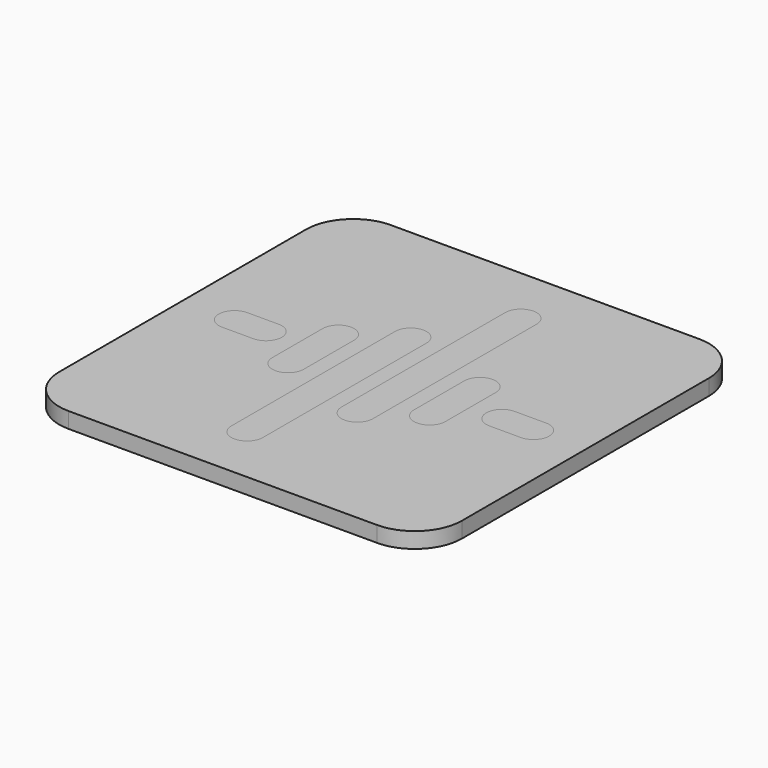
from build123d import *

# Parameters (mm, degrees)
F1_DEPTH = 5
F2_DEPTH = 5
F3_DEPTH = 5
F4_DEPTH = 5
F5_DEPTH = 5
F6_DEPTH = 5
F7_DEPTH = 5


with BuildPart() as f1:
    # F0 (on Top) → F1 (new body)
    with BuildSketch(Plane.XY):
        with BuildLine():
            ThreePointArc((64, 49), (59.606602, 59.606602), (49, 64))
            Line((49, 64), (-49, 64))
            ThreePointArc((-49, 64), (-59.606602, 59.606602), (-64, 49))
            Line((-64, 49), (-64, -49))
            ThreePointArc((-64, -49), (-59.606602, -59.606602), (-49, -64))
            Line((-49, -64), (49, -64))
            ThreePointArc((49, -64), (59.606602, -59.606602), (64, -49))
            Line((64, -49), (64, 49))
        make_face()
        with BuildLine():
            ThreePointArc((-7.5, 25), (-3.964466, 23.535534), (-2.5, 20))
            Line((-2.5, 20), (-2.5, -25))
            Line((-2.5, -25), (-2.5, -45))
            ThreePointArc((-2.5, -45), (-3.964466, -48.535534), (-7.5, -50))
            ThreePointArc((-7.5, -50), (-11.035534, -48.535534), (-12.5, -45))
            Line((-12.5, -45), (-12.5, -25))
            Line((-12.5, -25), (-12.5, 20))
            ThreePointArc((-12.5, 20), (-11.035534, 23.535534), (-7.5, 25))
        make_face(mode=Mode.SUBTRACT)
        with BuildLine():
            Line((-47.5, 5), (-37.5, 5))
            ThreePointArc((-37.5, 5), (-33.964466, 3.535534), (-32.5, 0))
            ThreePointArc((-32.5, 0), (-33.964466, -3.535534), (-37.5, -5))
            Line((-37.5, -5), (-47.5, -5))
            ThreePointArc((-47.5, -5), (-51.035534, -3.535534), (-52.5, 0))
            ThreePointArc((-52.5, 0), (-51.035534, 3.535534), (-47.5, 5))
        make_face(mode=Mode.SUBTRACT)
        with BuildLine():
            ThreePointArc((-22.5, 15), (-18.964466, 13.535534), (-17.5, 10))
            Line((-17.5, 10), (-17.5, -10))
            ThreePointArc((-17.5, -10), (-18.964466, -13.535534), (-22.5, -15))
            ThreePointArc((-22.5, -15), (-26.035534, -13.535534), (-27.5, -10))
            Line((-27.5, -10), (-27.5, 10))
            ThreePointArc((-27.5, 10), (-26.035534, 13.535534), (-22.5, 15))
        make_face(mode=Mode.SUBTRACT)
        with BuildLine():
            ThreePointArc((7.5, -25), (3.964466, -23.535534), (2.5, -20))
            Line((2.5, -20), (2.5, 25))
            Line((2.5, 25), (2.5, 45))
            ThreePointArc((2.5, 45), (3.964466, 48.535534), (7.5, 50))
            ThreePointArc((7.5, 50), (11.035534, 48.535534), (12.5, 45))
            Line((12.5, 45), (12.5, 25))
            Line((12.5, 25), (12.5, -20))
            ThreePointArc((12.5, -20), (11.035534, -23.535534), (7.5, -25))
        make_face(mode=Mode.SUBTRACT)
        with BuildLine():
            Line((27.5, 10), (27.5, -10))
            ThreePointArc((27.5, -10), (26.035534, -13.535534), (22.5, -15))
            ThreePointArc((22.5, -15), (18.964466, -13.535534), (17.5, -10))
            Line((17.5, -10), (17.5, 10))
            ThreePointArc((17.5, 10), (18.964466, 13.535534), (22.5, 15))
            ThreePointArc((22.5, 15), (26.035534, 13.535534), (27.5, 10))
        make_face(mode=Mode.SUBTRACT)
        with BuildLine():
            Line((47.5, -5), (37.5, -5))
            ThreePointArc((37.5, -5), (33.964466, -3.535534), (32.5, 0))
            ThreePointArc((32.5, 0), (33.964466, 3.535534), (37.5, 5))
            Line((37.5, 5), (47.5, 5))
            ThreePointArc((47.5, 5), (51.035534, 3.535534), (52.5, 0))
            ThreePointArc((52.5, 0), (51.035534, -3.535534), (47.5, -5))
        make_face(mode=Mode.SUBTRACT)
    extrude(amount=F1_DEPTH)


with BuildPart() as f2:
    # F0 (on Top) → F2 (new body)
    with BuildSketch(Plane.XY):
        with BuildLine():
            ThreePointArc((-32.5, 0), (-33.964466, 3.535534), (-37.5, 5))
            Line((-37.5, 5), (-47.5, 5))
            ThreePointArc((-47.5, 5), (-51.035534, 3.535534), (-52.5, 0))
            ThreePointArc((-52.5, 0), (-51.035534, -3.535534), (-47.5, -5))
            Line((-47.5, -5), (-37.5, -5))
            ThreePointArc((-37.5, -5), (-33.964466, -3.535534), (-32.5, 0))
        make_face()
    extrude(amount=F2_DEPTH)


with BuildPart() as f3:
    # F0 (on Top) → F3 (new body)
    with BuildSketch(Plane.XY):
        with BuildLine():
            Line((-17.5, -10), (-17.5, 10))
            ThreePointArc((-17.5, 10), (-18.964466, 13.535534), (-22.5, 15))
            ThreePointArc((-22.5, 15), (-26.035534, 13.535534), (-27.5, 10))
            Line((-27.5, 10), (-27.5, -10))
            ThreePointArc((-27.5, -10), (-26.035534, -13.535534), (-22.5, -15))
            ThreePointArc((-22.5, -15), (-18.964466, -13.535534), (-17.5, -10))
        make_face()
    extrude(amount=F3_DEPTH)


with BuildPart() as f4:
    # F0 (on Top) → F4 (new body)
    with BuildSketch(Plane.XY):
        with BuildLine():
            Line((-2.5, -25), (-2.5, 20))
            ThreePointArc((-2.5, 20), (-3.964466, 23.535534), (-7.5, 25))
            ThreePointArc((-7.5, 25), (-11.035534, 23.535534), (-12.5, 20))
            Line((-12.5, 20), (-12.5, -25))
            Line((-12.5, -25), (-12.5, -45))
            ThreePointArc((-12.5, -45), (-11.035534, -48.535534), (-7.5, -50))
            ThreePointArc((-7.5, -50), (-3.964466, -48.535534), (-2.5, -45))
            Line((-2.5, -45), (-2.5, -25))
        make_face()
    extrude(amount=F4_DEPTH)


with BuildPart() as f5:
    # F0 (on Top) → F5 (new body)
    with BuildSketch(Plane.XY):
        with BuildLine():
            Line((2.5, 25), (2.5, -20))
            ThreePointArc((2.5, -20), (3.964466, -23.535534), (7.5, -25))
            ThreePointArc((7.5, -25), (11.035534, -23.535534), (12.5, -20))
            Line((12.5, -20), (12.5, 25))
            Line((12.5, 25), (12.5, 45))
            ThreePointArc((12.5, 45), (11.035534, 48.535534), (7.5, 50))
            ThreePointArc((7.5, 50), (3.964466, 48.535534), (2.5, 45))
            Line((2.5, 45), (2.5, 25))
        make_face()
    extrude(amount=F5_DEPTH)


with BuildPart() as f6:
    # F0 (on Top) → F6 (new body)
    with BuildSketch(Plane.XY):
        with BuildLine():
            ThreePointArc((22.5, -15), (26.035534, -13.535534), (27.5, -10))
            Line((27.5, -10), (27.5, 10))
            ThreePointArc((27.5, 10), (26.035534, 13.535534), (22.5, 15))
            ThreePointArc((22.5, 15), (18.964466, 13.535534), (17.5, 10))
            Line((17.5, 10), (17.5, -10))
            ThreePointArc((17.5, -10), (18.964466, -13.535534), (22.5, -15))
        make_face()
    extrude(amount=F6_DEPTH)


with BuildPart() as f7:
    # F0 (on Top) → F7 (new body)
    with BuildSketch(Plane.XY):
        with BuildLine():
            ThreePointArc((32.5, 0), (33.964466, -3.535534), (37.5, -5))
            Line((37.5, -5), (47.5, -5))
            ThreePointArc((47.5, -5), (51.035534, -3.535534), (52.5, 0))
            ThreePointArc((52.5, 0), (51.035534, 3.535534), (47.5, 5))
            Line((47.5, 5), (37.5, 5))
            ThreePointArc((37.5, 5), (33.964466, 3.535534), (32.5, 0))
        make_face()
    extrude(amount=F7_DEPTH)


solid = Compound([f1.part, f2.part, f3.part, f4.part, f5.part, f6.part, f7.part])
